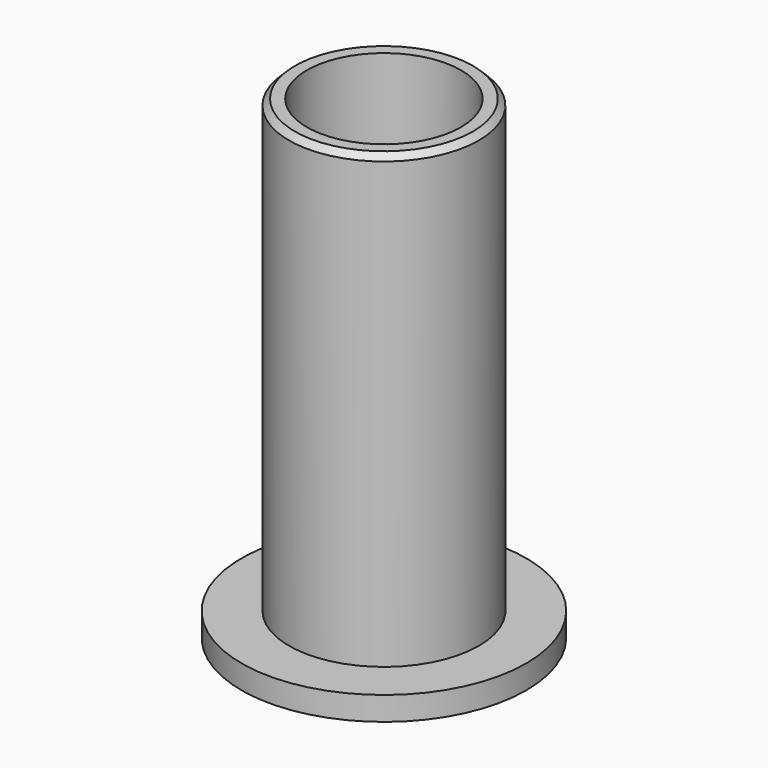
from build123d import *

# Parameters (mm, degrees)
SKETCH_R        = 8
SKETCH_R_2      = 6.5
PAD_DEPTH       = 40
SKETCH001_R     = 12
SKETCH001_R_2   = 6.5
PAD001_DEPTH    = 2
CHAMFER_SIZE    = 0.5
CHAMFER001_SIZE = 0.5


with BuildPart() as part:
    # Sketch → Pad (new body)
    with BuildSketch(Plane.XY):
        Circle(SKETCH_R)
        Circle(SKETCH_R_2, mode=Mode.SUBTRACT)
    extrude(amount=PAD_DEPTH)

    # Sketch001 → Pad001 (join)
    with BuildSketch(Plane.XY):
        Circle(SKETCH001_R)
        Circle(SKETCH001_R_2, mode=Mode.SUBTRACT)
    extrude(amount=PAD001_DEPTH)

    # Chamfer
    chamfer_edges = [part.edges().sort_by_distance(p)[0] for p in [
        (-8, 0, 40),
    ]]
    chamfer(chamfer_edges, length=CHAMFER_SIZE)

    # Chamfer001
    chamfer001_edges = [part.edges().sort_by_distance(p)[0] for p in [
        (-6.5, 0, 0),
    ]]
    chamfer(chamfer001_edges, length=CHAMFER001_SIZE)


solid = part.part
